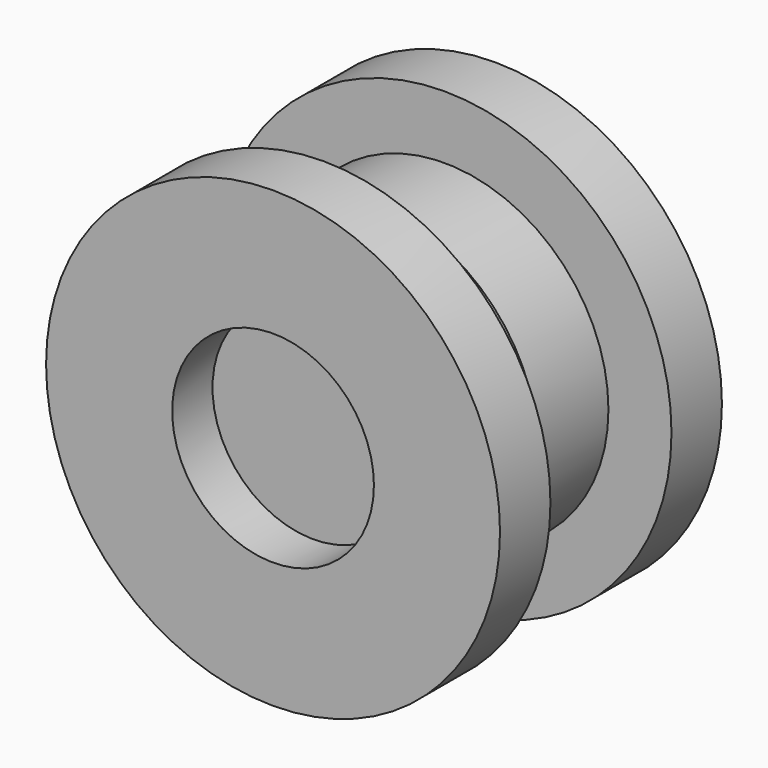
from build123d import *

# Parameters (mm, degrees)
F2_R     = 40
F3_DEPTH = 20


with BuildPart() as f1:
    # F0 (on Top) → F1 (revolve)
    with BuildSketch(Plane.XY):
        Polygon((0, 110), (0, 0), (90, 0), (90, 25), (55, 25), (55, 50), (65, 50), (65, 85), (90, 85), (90, 110), align=None)
    revolve(axis=Axis((0, 55, 0), (0, 1, 0)))

    # F2 (on face) → F3 (cut, symmetric)
    with BuildSketch(Plane.XZ):
        Circle(F2_R)
    extrude(amount=F3_DEPTH, both=True, mode=Mode.SUBTRACT)


solid = f1.part
